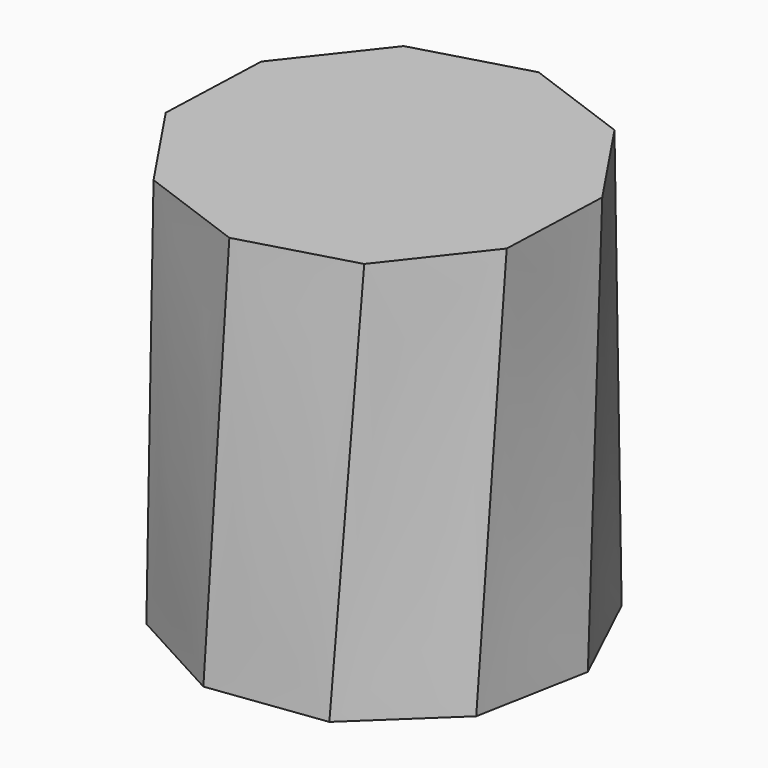
from build123d import *


with BuildPart() as f4:
    # F0 (on Top) → F4 section 0
    with BuildSketch(Plane.XY):
        Polygon((-10.148082, -54.266799), (23.687254, -49.867656), (48.474863, -26.420763), (54.746723, 7.117964), (40.107195, 37.93787), (10.148082, 54.266799), (-23.687254, 49.867656), (-48.474863, 26.420763), (-54.746723, -7.117964), (-40.107195, -37.93787), align=None)
    # F3 (on offset) → F4 section 1
    with BuildSketch(Plane.XY.offset(120)):
        Polygon((-2.032877, -54.775217), (30.551433, -45.508977), (51.466133, -18.859854), (52.722521, 14.993092), (33.840697, 43.119186), (2.032877, 54.775217), (-30.551433, 45.508977), (-51.466133, 18.859854), (-52.722521, -14.993092), (-33.840697, -43.119186), align=None)
    loft()


solid = f4.part
